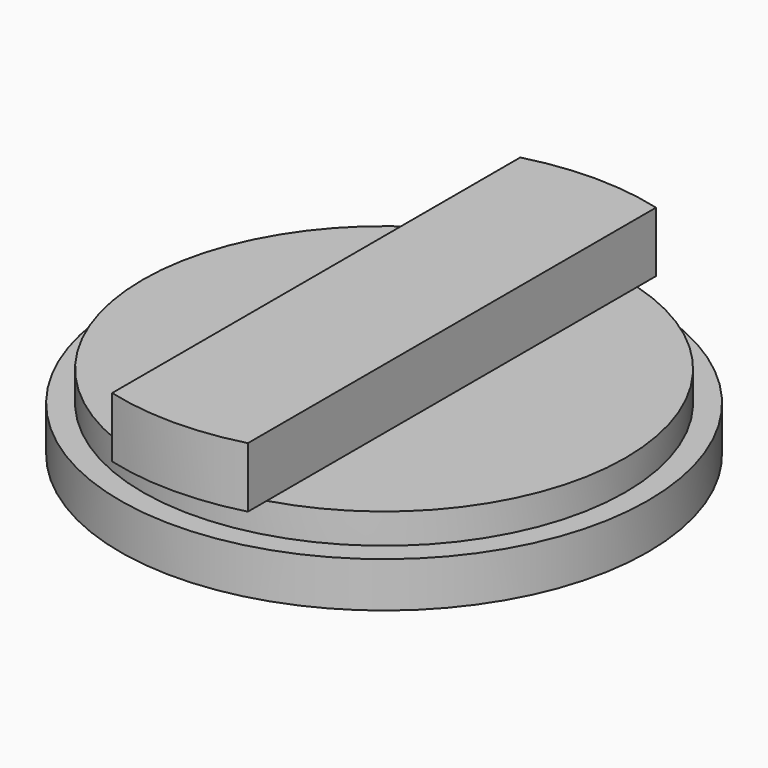
from build123d import *

# Parameters (mm, degrees)
F0_R     = 17.5
F1_DEPTH = 3
F2_R     = 16
F3_DEPTH = 2
F5_DEPTH = 4
F6_W     = 2
F6_H     = 10
F7_DEPTH = 3


with BuildPart() as f1:
    # F0 (on Top) → F1 (new body)
    with BuildSketch(Plane.XY):
        Circle(F0_R)
    extrude(amount=F1_DEPTH)

    # F2 (on face) → F3 (join)
    with BuildSketch(Plane.XY.offset(3)):
        Circle(F2_R)
    extrude(amount=F3_DEPTH)

    # F4 (on face) → F5 (join)
    with BuildSketch(Plane.XY.offset(5)):
        with BuildLine():
            Line((4.5, -16.911535), (4.5, 16.911535))
            ThreePointArc((4.5, 16.911535), (0, 17.5), (-4.5, 16.911535))
            Line((-4.5, 16.911535), (-4.5, -16.911535))
            ThreePointArc((-4.5, -16.911535), (0, -17.5), (4.5, -16.911535))
        make_face()
    extrude(amount=F5_DEPTH)

    # F6 (on face) → F7 (cut)
    with BuildSketch(Plane(origin=(0, 0, 0), x_dir=(1, 0, 0), z_dir=(0, 0, -1))):
        Rectangle(F6_W, F6_H)
    extrude(amount=-F7_DEPTH, mode=Mode.SUBTRACT)


solid = f1.part
